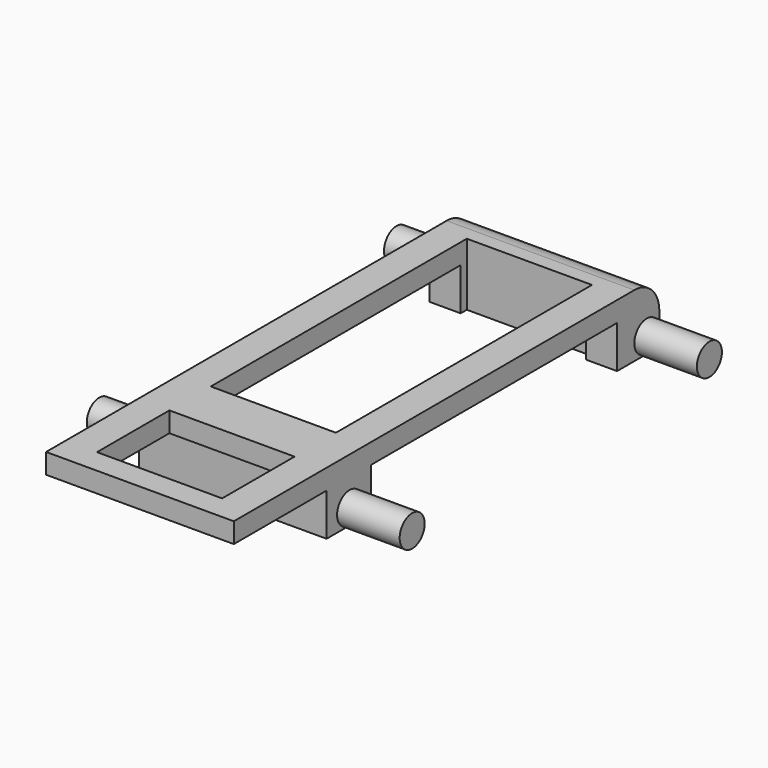
from build123d import *

# Parameters (mm, degrees)
F0_W     = 24
F0_H     = 68
F1_DEPTH = 8
F2_R     = 2
F3_DEPTH = 20
F4_W     = 39.3141321838
F4_H     = 5.4286047816
F4_W_2   = 14.8275513351
F5_DEPTH = 25
F6_W     = 16
F6_H     = 40.9167615801
F6_H_2   = 11.5639846772
F7_DEPTH = 25


with BuildPart() as f1:
    # F0 (on Top) → F1 (new body)
    with BuildSketch(Plane.XY):
        Rectangle(F0_W, F0_H)
    extrude(amount=F1_DEPTH)

    # F2 (on Right) → F3 (join, symmetric)
    with BuildSketch(Plane.YZ):
        with Locations((32, 2)):
            Circle(F2_R)
        with Locations((-15.5, 2)):
            Circle(F2_R)
    extrude(amount=F3_DEPTH, both=True)

    # F4 (on face) → F5 (cut)
    with BuildSketch(Plane.YZ.offset(12)):
        with BuildLine():
            ThreePointArc((30, 8), (32.8284271247, 6.8284271247), (34, 4))
            Line((34, 4), (34, 8))
            Line((34, 8), (30, 8))
        make_face()
        with Locations((7.5888540596, 2.7143023908)):
            Rectangle(F4_W, F4_H)
        with Locations((-26.5862243325, 2.7143023908)):
            Rectangle(F4_W_2, F4_H)
    extrude(amount=-F5_DEPTH, mode=Mode.SUBTRACT)

    # F6 (on face) → F7 (cut)
    with BuildSketch(Plane.XY.offset(8)):
        with Locations((0, 7.775218226)):
            Rectangle(F6_W, F6_H)
        with Locations((0, -25.0811139122)):
            Rectangle(F6_W, F6_H_2)
    extrude(amount=-F7_DEPTH, mode=Mode.SUBTRACT)


solid = f1.part
